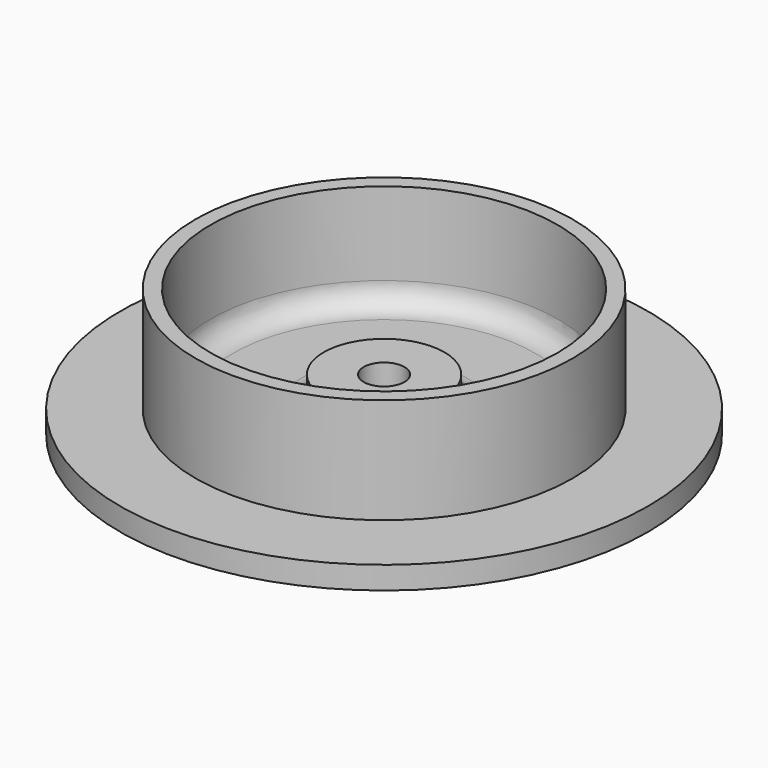
from build123d import *

# Parameters (mm, degrees)
F0_R     = 35
F1_DEPTH = 3
F2_R     = 25
F2_R_2   = 23
F3_DEPTH = 14
F4_R     = 8
F5_DEPTH = 4
F6_R     = 2.7
F7_DEPTH = 25
F8_R     = 3


with BuildPart() as f1:
    # F0 (on Top) → F1 (new body)
    with BuildSketch(Plane.XY):
        Circle(F0_R)
    extrude(amount=F1_DEPTH)

    # F2 (on face) → F3 (join)
    with BuildSketch(Plane.XY.offset(3)):
        Circle(F2_R)
        Circle(F2_R_2, mode=Mode.SUBTRACT)
    extrude(amount=F3_DEPTH)

    # F4 (on face) → F5 (join)
    with BuildSketch(Plane.XY.offset(3)):
        Circle(F4_R)
    extrude(amount=F5_DEPTH)

    # F6 (on face) → F7 (cut)
    with BuildSketch(Plane.XY.offset(7)):
        Circle(F6_R)
    extrude(amount=-F7_DEPTH, mode=Mode.SUBTRACT)

    # F8
    f8_edges = [f1.edges().sort_by_distance(p)[0] for p in [
        (-23, 0, 3),
        (-8, 0, 3),
    ]]
    fillet(f8_edges, radius=F8_R)


solid = f1.part
